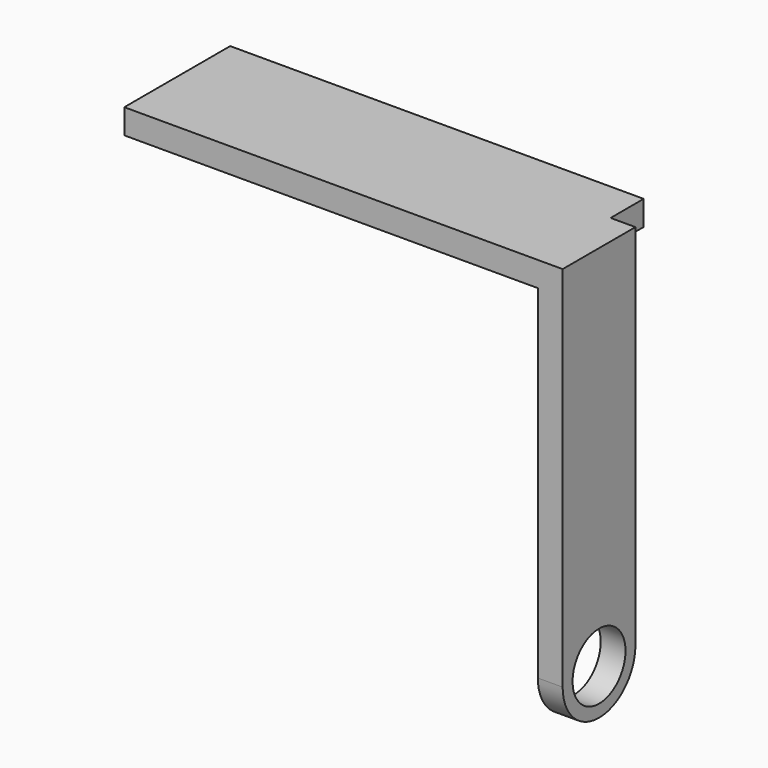
from build123d import *

# Parameters (mm, degrees)
SKETCH082_R     = 0.8
PAD052_DEPTH    = 0.6
SKETCH092_W     = 2.2
SKETCH092_H     = 0.6
PAD048_DEPTH    = 10
PAD048_FACE12_W = 10
PAD048_FACE12_H = 0.6
PAD053_DEPTH    = 1


with BuildPart() as part:
    # Sketch082 → Pad052 (new body)
    with BuildSketch(Plane.YZ):
        with BuildLine():
            Line((0, -8.9), (0, 0))
            Line((0, 0), (2.2, 0))
            Line((2.2, 0), (2.2, -8.9))
            ThreePointArc((0, -8.9), (1.1, -10), (2.2, -8.9))
        make_face()
        with Locations((1.1, -8.9)):
            Circle(SKETCH082_R, mode=Mode.SUBTRACT)
    extrude(amount=PAD052_DEPTH)

    # Sketch092 (on Face6 of Pad052) → Pad048 (join)
    with BuildSketch(Plane(origin=(0, 0, 0), x_dir=(0, 1, 0), z_dir=(-1, 0, 0))):
        with Locations((1.1, 0.3)):
            Rectangle(SKETCH092_W, SKETCH092_H)
    extrude(amount=PAD048_DEPTH)

    # Pad048 Face12 → Pad053 (add)
    with BuildSketch(Plane(origin=(-5, 2.2, -0.3), x_dir=(1, 0, 0), z_dir=(0, 1, 0))):
        Rectangle(PAD048_FACE12_W, PAD048_FACE12_H)
    extrude(amount=PAD053_DEPTH)


with BuildPart() as part_1:
    # Body015 placement: moved
    add(part.part.moved(Location((10, 12.3, 5.5))))


solid = part_1.part
